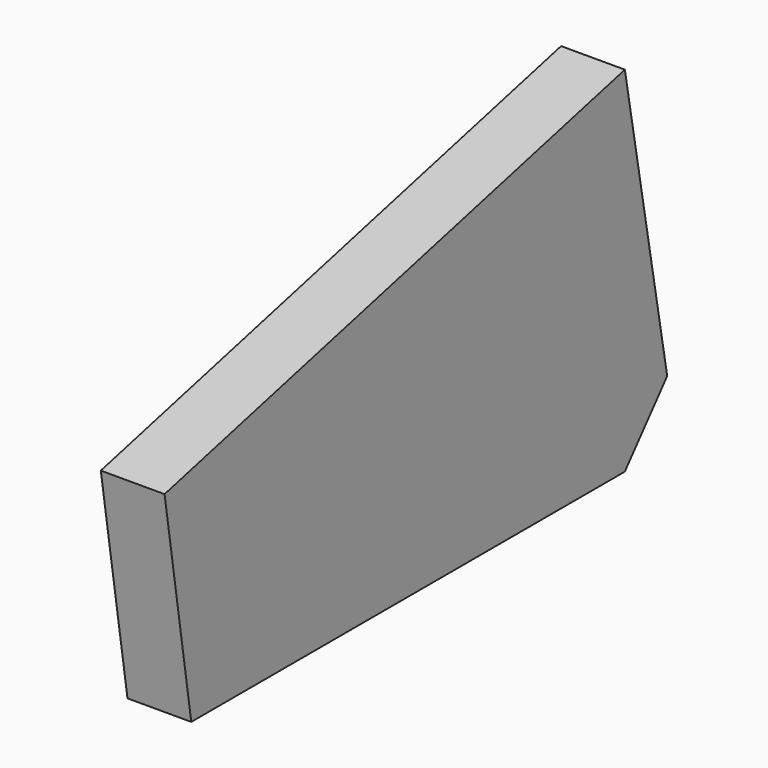
from build123d import *

# Parameters (mm, degrees)
PAD_DEPTH = 14


with BuildPart() as part:
    # Sketch → Pad (new body)
    with BuildSketch(Plane.YZ):
        Polygon((7.323038, 0), (126.323038, 0), (137.942801, 13.74704), (126.323038, 77.7), (0, 47), align=None)
    extrude(amount=PAD_DEPTH)


solid = part.part
